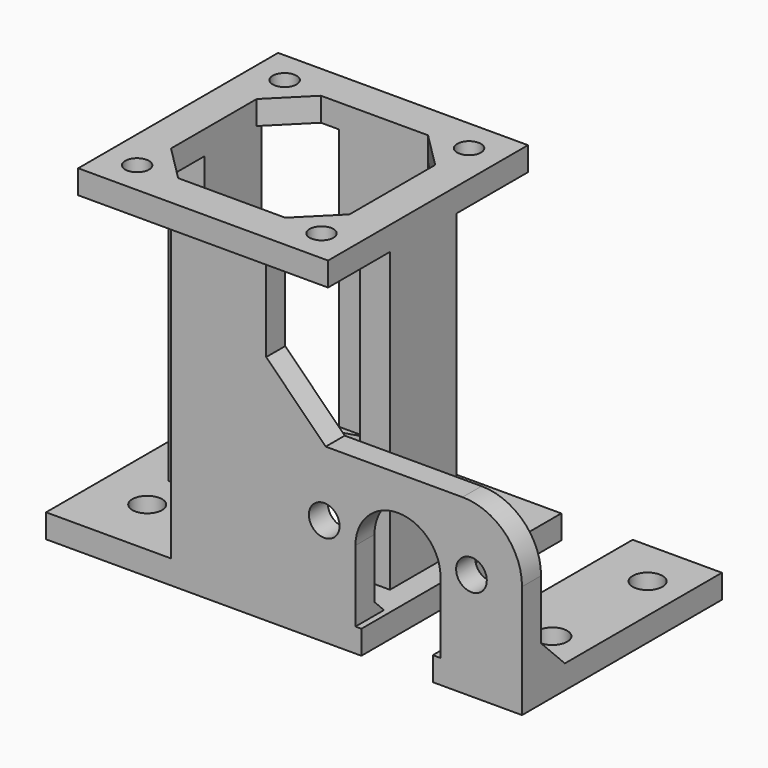
from build123d import *

# Parameters (mm, degrees)
BOX009_W        = 12
BOX009_H        = 50
BOX009_DEPTH    = 10
BOX008_W        = 43
BOX008_H        = 4
BOX008_DEPTH    = 25
SKETCH006_R     = 2.5781
POCKET005_DEPTH = 4.001
FILLET_R        = 10
BOX007_W        = 5
BOX007_H        = 5
BOX007_DEPTH    = 2
SKETCH004_R     = 22
SKETCH004_R_2   = 17
POCKET003_DEPTH = 4
BOX001_W        = 15
BOX001_H        = 6
BOX001_DEPTH    = 50
BOX002_W        = 16
BOX002_H        = 4
BOX002_DEPTH    = 50
BOX004_W        = 6
BOX004_H        = 12
BOX004_DEPTH    = 50
BOX003_W        = 5
BOX003_H        = 14
BOX003_DEPTH    = 50
BOX_W           = 80
BOX_H           = 42
BOX_DEPTH       = 4
SKETCH_R        = 15
SKETCH_R_2      = 2.5
POCKET_DEPTH    = 4.001
SKETCH001_R     = 17
PAD_DEPTH       = 6
SKETCH002_R     = 15
POCKET001_DEPTH = 10.001
BOX005_W        = 42
BOX005_H        = 42
BOX005_DEPTH    = 4
SKETCH003_R     = 2
POCKET002_DEPTH = 4.001
BOX006_W        = 5
BOX006_H        = 5
BOX006_DEPTH    = 2
SKETCH005_R     = 22
SKETCH005_R_2   = 17
POCKET004_DEPTH = 4
CHAMFER_SIZE    = 5
CHAMFER001_SIZE = 2
CHAMFER002_SIZE = 10


with BuildPart() as cube008:
    # Box009 → Box009 (new body)
    with BuildSketch(Plane(origin=(53, -4, 0), x_dir=(1, 0, 0), z_dir=(0, 0, 1))):
        with Locations((6, 25)):
            Rectangle(BOX009_W, BOX009_H)
    extrude(amount=BOX009_DEPTH)


with BuildPart() as fillet_body:
    # Box008 → Box008 (new body)
    with BuildSketch(Plane(origin=(37, 0, 4), x_dir=(1, 0, 0), z_dir=(0, 0, 1))):
        with Locations((21.5, 2)):
            Rectangle(BOX008_W, BOX008_H)
    extrude(amount=BOX008_DEPTH)

    # Sketch006 → Pocket005 (cut, through all)
    with BuildSketch(Plane(origin=(37, 0, 4), x_dir=(1, 0, 0), z_dir=(0, -1, 0))):
        with Locations((34.5, 14)):
            Circle(SKETCH006_R)
        with Locations((9.753, 14)):
            Circle(SKETCH006_R)
        with BuildLine():
            ThreePointArc((29.3, 12.000026), (22.149987, 19.15), (15, 12))
            Line((15, 12), (15, 0))
            Line((15, 0), (29.3, 0))
            Line((29.3, 12.000026), (29.3, 0))
        make_face()
    extrude(amount=-POCKET005_DEPTH, mode=Mode.SUBTRACT)

    # Fillet
    fillet_edges = [fillet_body.edges().sort_by_distance(p)[0] for p in [
        (80, 2, 29),
    ]]
    fillet(fillet_edges, radius=FILLET_R)


with BuildPart() as pocket003:
    # Box007 → Box007 (new body)
    with BuildSketch(Plane(origin=(38, 27, 10), x_dir=(1, 0, 0), z_dir=(0, 0, 1))):
        with Locations((2.5, 2.5)):
            Rectangle(BOX007_W, BOX007_H)
    extrude(amount=BOX007_DEPTH)

    # Sketch004 → Pocket003 (cut)
    with BuildSketch(Plane(origin=(38, 27, 12), x_dir=(1, 0, 0), z_dir=(0, 0, 1))):
        with Locations((-9, -8.5)):
            Circle(SKETCH004_R)
        with Locations((-9, -8.5)):
            Circle(SKETCH004_R_2, mode=Mode.SUBTRACT)
    extrude(amount=-POCKET003_DEPTH, mode=Mode.SUBTRACT)


with BuildPart() as cube:
    # Box001 → Box001 (new body)
    with BuildSketch(Plane(origin=(22, 34, 4), x_dir=(1, 0, 0), z_dir=(0, 0, 1))):
        with Locations((7.5, 3)):
            Rectangle(BOX001_W, BOX001_H)
    extrude(amount=BOX001_DEPTH)


with BuildPart() as cube001:
    # Box002 → Box002 (new body)
    with BuildSketch(Plane(origin=(21, 0, 4), x_dir=(1, 0, 0), z_dir=(0, 0, 1))):
        with Locations((8, 2)):
            Rectangle(BOX002_W, BOX002_H)
    extrude(amount=BOX002_DEPTH)


with BuildPart() as cube003:
    # Box004 → Box004 (new body)
    with BuildSketch(Plane(origin=(7, 17, 4), x_dir=(1, 0, 0), z_dir=(0, 0, 1))):
        with Locations((3, 6)):
            Rectangle(BOX004_W, BOX004_H)
    extrude(amount=BOX004_DEPTH)


with BuildPart() as cube002:
    # Box003 → Box003 (new body)
    with BuildSketch(Plane(origin=(44, 11, 4), x_dir=(1, 0, 0), z_dir=(0, 0, 1))):
        with Locations((2.5, 7)):
            Rectangle(BOX003_W, BOX003_H)
    extrude(amount=BOX003_DEPTH)


with BuildPart() as fusion:
    # Box → Box (new body)
    with BuildSketch(Plane.XY):
        with Locations((40, 21)):
            Rectangle(BOX_W, BOX_H)
    extrude(amount=BOX_DEPTH)

    # Sketch → Pocket (cut, through all)
    with BuildSketch(Plane.XY.offset(4)):
        with Locations((-2, 41)):
            Circle(SKETCH_R)
        with Locations((29, 19)):
            Circle(SKETCH_R)
        with Locations((9, 10)):
            Circle(SKETCH_R_2)
        with Locations((16, 36)):
            Circle(SKETCH_R_2)
        with Locations((44.1, 34)):
            Circle(SKETCH_R_2)
        with Locations((73.9, 34)):
            Circle(SKETCH_R_2)
        with Locations((73.9, 14)):
            Circle(SKETCH_R_2)
    extrude(amount=-POCKET_DEPTH, mode=Mode.SUBTRACT)

    # Sketch001 → Pad (new body)
    with BuildSketch(Plane.XY.offset(4)):
        with Locations((29, 19)):
            Circle(SKETCH001_R)
    extrude(amount=PAD_DEPTH)

    # Sketch002 → Pocket001 (cut, through all)
    with BuildSketch(Plane.XY.offset(10)):
        with Locations((29, 19)):
            Circle(SKETCH002_R)
    extrude(amount=-POCKET001_DEPTH, mode=Mode.SUBTRACT)

    # Fusion: union Cube, Cube001, Cube003, Cube002
    add(cube.part)
    add(cube001.part)
    add(cube003.part)
    add(cube002.part)


with BuildPart() as fusion001:
    # Box005 → Box005 (new body)
    with BuildSketch(Plane(origin=(7, -2, 54), x_dir=(1, 0, 0), z_dir=(0, 0, 1))):
        with Locations((21, 21)):
            Rectangle(BOX005_W, BOX005_H)
    extrude(amount=BOX005_DEPTH)

    # Sketch003 → Pocket002 (cut, through all)
    with BuildSketch(Plane(origin=(7, -2, 58), x_dir=(1, 0, 0), z_dir=(0, 0, 1))):
        with Locations((5.5, 36.5)):
            Circle(SKETCH003_R)
        with Locations((36.5, 36.5)):
            Circle(SKETCH003_R)
        with Locations((5.5, 5.5)):
            Circle(SKETCH003_R)
        with Locations((36.5, 5.5)):
            Circle(SKETCH003_R)
        Polygon((6, 30), (6, 12), (12, 6), (30, 6), (36, 12), (36, 30), (30, 36), (12, 36), align=None)
    extrude(amount=-POCKET002_DEPTH, mode=Mode.SUBTRACT)

    # Fusion001: union Fusion
    add(fusion.part)


with BuildPart() as chamfer002:
    # Box006 → Box006 (new body)
    with BuildSketch(Plane(origin=(14, 8, 10), x_dir=(1, 0, 0), z_dir=(0, 0, 1))):
        with Locations((2.5, 2.5)):
            Rectangle(BOX006_W, BOX006_H)
    extrude(amount=BOX006_DEPTH)

    # Sketch005 → Pocket004 (cut)
    with BuildSketch(Plane(origin=(14, 8, 12), x_dir=(1, 0, 0), z_dir=(0, 0, 1))):
        with Locations((15, 11)):
            Circle(SKETCH005_R)
        with Locations((15, 11)):
            Circle(SKETCH005_R_2, mode=Mode.SUBTRACT)
    extrude(amount=-POCKET004_DEPTH, mode=Mode.SUBTRACT)

    # Fusion002: union Pocket003, Fusion001
    add(pocket003.part)
    add(fusion001.part)

    # Fusion003: union Fillet body
    add(fillet_body.part)

    # Chamfer
    chamfer_edges = [chamfer002.edges().sort_by_distance(p)[0] for p in [
        (73.15, 4, 4),
    ]]
    chamfer(chamfer_edges, length=CHAMFER_SIZE)

    # Chamfer001
    chamfer001_edges = [chamfer002.edges().sort_by_distance(p)[0] for p in [
        (44.5, 4, 4),
    ]]
    chamfer(chamfer001_edges, length=CHAMFER001_SIZE)

    # Cut: cut Cube008
    add(cube008.part, mode=Mode.SUBTRACT)

    # Chamfer002
    chamfer002_edges = [chamfer002.edges().sort_by_distance(p)[0] for p in [
        (37, 2, 29),
    ]]
    chamfer(chamfer002_edges, length=CHAMFER002_SIZE)


solid = chamfer002.part
